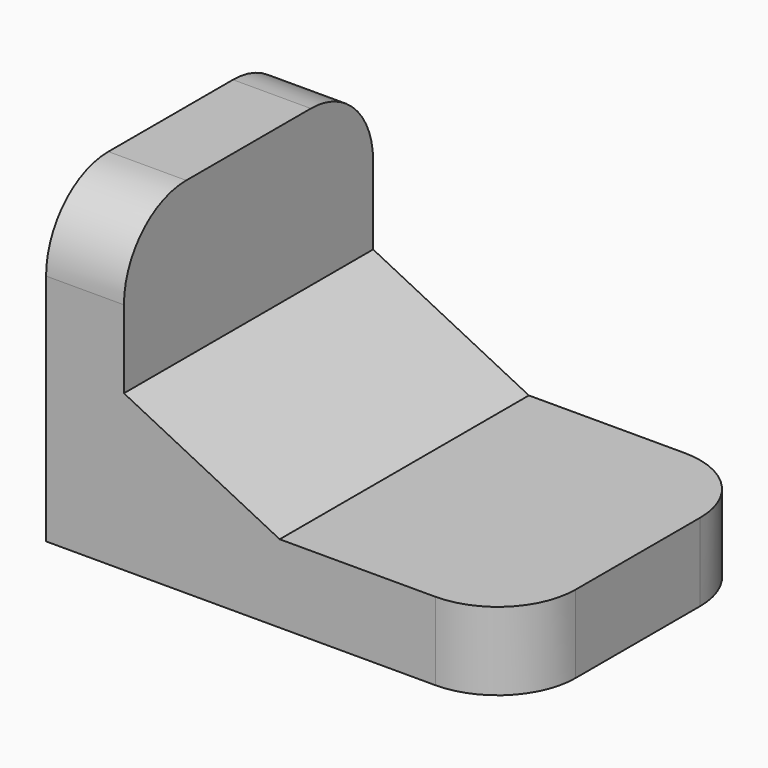
from build123d import *

# Parameters (mm, degrees)
F1_DEPTH = 40
F2_R     = 10


with BuildPart() as f1:
    # F0 (on Front) → F1 (new body)
    with BuildSketch(Plane.XZ):
        Polygon((0, 40), (0, 0), (60, 0), (60, 10), (30, 10), (10, 20), (10, 40), align=None)
    extrude(amount=F1_DEPTH)

    # F2
    f2_edges = [f1.edges().sort_by_distance(p)[0] for p in [
        (5, -40, 40),
        (60, -40, 5),
        (60, 0, 5),
        (5, 0, 40),
    ]]
    fillet(f2_edges, radius=F2_R)


solid = f1.part
